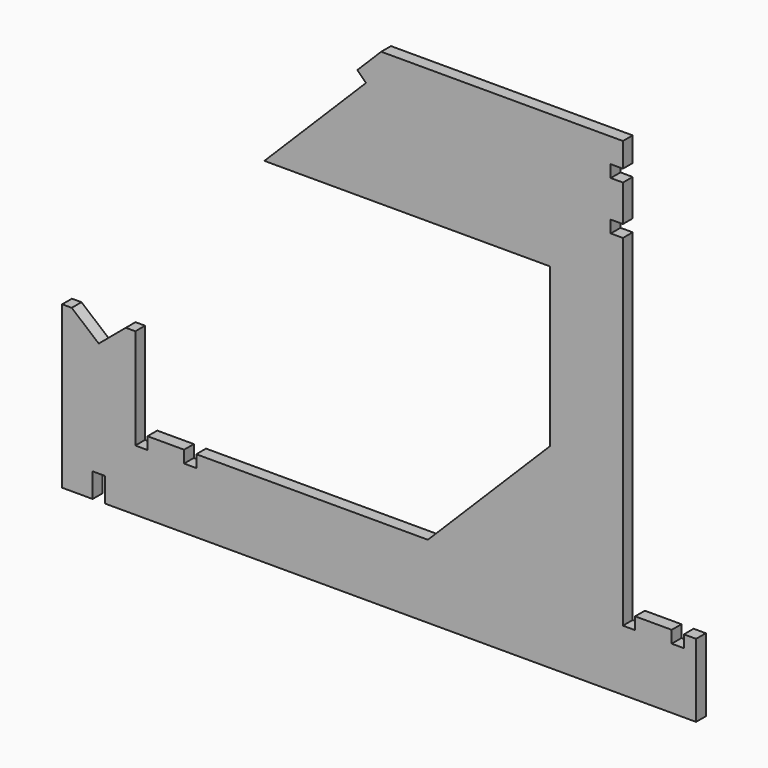
from build123d import *

# Parameters (mm, degrees)
F1_DEPTH = 6.35


with BuildPart() as f1:
    # F0 (on Front) → F1 (new body)
    with BuildSketch(Plane.XZ):
        Polygon((-82.641583, -23.385886), (-82.641583, -105.935886), (-146.141583, -169.435886), (-266.791583, -169.435886), (-266.791583, -175.785886), (-273.141583, -175.785886), (-273.141583, -169.435886), (-292.191583, -169.435886), (-292.191583, -175.785886), (-298.541583, -175.785886), (-298.541583, -123.398386), (-303.509617, -123.398386), (-317.591583, -135.214559), (-331.673549, -123.398386), (-336.641583, -123.398386), (-336.641583, -207.535886), (-320.766583, -207.535886), (-320.766583, -194.835886), (-314.416583, -194.835886), (-314.416583, -207.535886), (-6.441583, -207.535886), (-6.441583, -169.435886), (-12.791583, -169.435886), (-12.791583, -175.785886), (-19.141583, -175.785886), (-19.141583, -169.435886), (-38.191583, -169.435886), (-38.191583, -175.785886), (-44.541583, -175.785886), (-44.541583, 2.014114), (-50.891583, 2.014114), (-50.891583, 8.364114), (-44.541583, 8.364114), (-44.541583, 27.414114), (-50.891583, 27.414114), (-50.891583, 33.764114), (-44.541583, 33.764114), (-44.541583, 46.464114), (-170.452095, 46.464114), (-182.887741, 34.028468), (-178.397613, 29.53834), (-231.321839, -23.385886), align=None)
    extrude(amount=F1_DEPTH)


solid = f1.part
